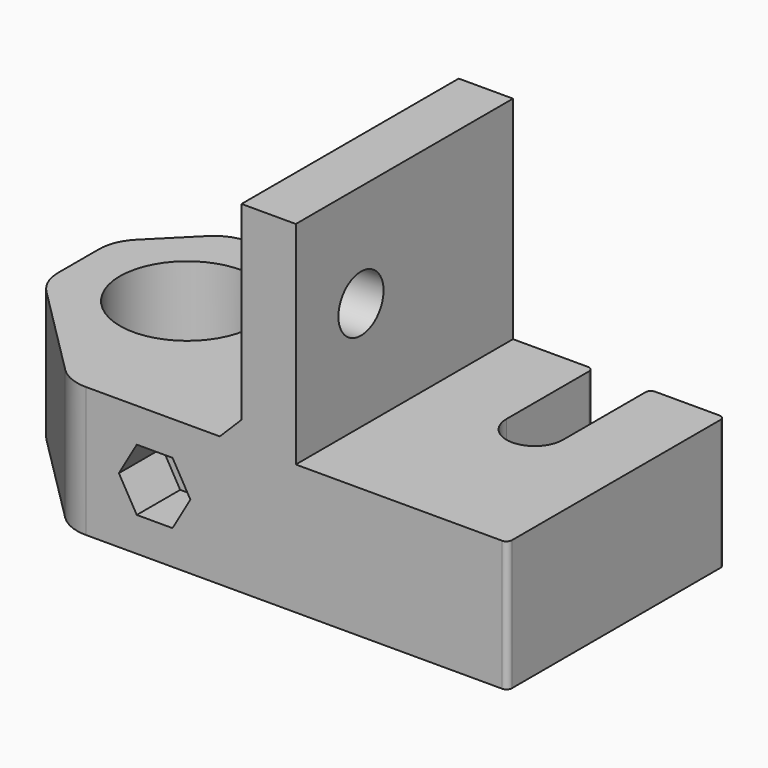
from build123d import *

# Parameters (mm, degrees)
PAD_DEPTH       = 31.5
SKETCH001_W     = 20
SKETCH001_H     = 30
SKETCH001_W_2   = 27
POCKET_DEPTH    = 19.5
SKETCH002_R     = 2.6
POCKET001_DEPTH = 24.501
SKETCH003_R     = 1.7
POCKET002_DEPTH = 25.001
SKETCH004_R     = 3
POCKET003_DEPTH = 3
POCKET004_DEPTH = 5
CHAMFER_SIZE    = 2
FILLET_R        = 0.5


with BuildPart() as part:
    # Sketch → Pad (new body)
    with BuildSketch(Plane.XY):
        with BuildLine():
            ThreePointArc((-0.171573, -13.828427), (1.126121, -14.695518), (2.656854, -15))
            Line((41.00007, -14.999422), (2.656854, -15))
            ThreePointArc((41.00007, -14.999422), (41.353579, -14.85295), (41.5, -14.499421))
            Line((41.5, 9.5), (41.5, -14.499421))
            ThreePointArc((41.5, 9.5), (41.353578, 9.853528), (41.000071, 10))
            Line((34.6, 10), (41.000071, 10))
            Line((34.6, 10), (34.6, 0))
            ThreePointArc((29.4, 0), (32, -2.6), (34.6, 0))
            Line((29.4, 0), (29.4, 10))
            Line((15, 10), (29.4, 10))
            Line((15, 3.5), (15, 10))
            Line((5.990826, 3.5), (15, 3.5))
            ThreePointArc((5.990826, 3.5), (5.56542, 3.262735), (5.54375, 2.776119))
            ThreePointArc((4.372572, 4.395522), (-5.023841, -3.633322), (5.54375, 2.776119))
            ThreePointArc((4.372572, 4.395522), (4.534461, 4.28781), (4.725198, 4.25))
            Line((14.25, 4.25), (4.725198, 4.25))
            Line((14.25, 10), (14.25, 4.25))
            Line((-2.343146, 10), (14.25, 10))
            ThreePointArc((-2.343146, 10), (-3.873879, 9.695518), (-5.171573, 8.828427))
            Line((-5.171573, 8.828427), (-8.828427, 5.171573))
            ThreePointArc((-8.828427, 5.171573), (-9.695518, 3.873879), (-10, 2.343146))
            Line((-10, -2.343146), (-10, 2.343146))
            ThreePointArc((-10, -2.343146), (-9.695518, -3.873879), (-8.828427, -5.171573))
            Line((-8.828427, -5.171573), (-0.171573, -13.828427))
        make_face()
    extrude(amount=PAD_DEPTH)

    # Sketch001 (on Face26 of Pad) → Pocket (cut)
    with BuildSketch(Plane.XY.offset(31.5)):
        with Locations((32, 0)):
            Rectangle(SKETCH001_W, SKETCH001_H)
        with Locations((3.5, 0)):
            Rectangle(SKETCH001_W_2, SKETCH001_H)
    extrude(amount=-POCKET_DEPTH, mode=Mode.SUBTRACT)

    # Sketch002 (on Face29 of Pocket) → Pocket001 (cut, through all)
    with BuildSketch(Plane(origin=(17, 0, 0), x_dir=(0, -1, 0), z_dir=(-1, 0, 0))):
        with Locations((7.5, 22)):
            Circle(SKETCH002_R)
    extrude(amount=-POCKET001_DEPTH, mode=Mode.SUBTRACT)

    # Sketch003 (on Face13 of Pocket001) → Pocket002 (cut, through all)
    with BuildSketch(Plane(origin=(0, 10, 0), x_dir=(-1, 0, 0), z_dir=(0, 1, 0))):
        with Locations((-9, 6)):
            Circle(SKETCH003_R)
    extrude(amount=-POCKET002_DEPTH, mode=Mode.SUBTRACT)

    # Sketch004 (on Face13 of Pocket002) → Pocket003 (cut)
    with BuildSketch(Plane(origin=(0, 10, 0), x_dir=(-1, 0, 0), z_dir=(0, 1, 0))):
        with Locations((-9, 6)):
            Circle(SKETCH004_R)
    extrude(amount=-POCKET003_DEPTH, mode=Mode.SUBTRACT)

    # Sketch005 (on Face21 of Pocket003) → Pocket004 (cut)
    with BuildSketch(Plane(origin=(0.000226, -15.00004, 0), x_dir=(1, 1.5e-05, 0), z_dir=(1.5e-05, -1, 0))):
        Polygon((10.645448, 3.15), (12.290897, 6), (10.645448, 8.85), (7.354552, 8.85), (5.709103, 6), (7.354552, 3.15), align=None)
    extrude(amount=-POCKET004_DEPTH, mode=Mode.SUBTRACT)

    # Chamfer
    chamfer_edges = [part.edges().sort_by_distance(p)[0] for p in [
        (17, -2.499892, 12),
    ]]
    chamfer(chamfer_edges, length=CHAMFER_SIZE)

    # Fillet
    fillet_edges = [part.edges().sort_by_distance(p)[0] for p in [
        (34.6, 10, 6),
        (29.4, 10, 6),
    ]]
    fillet(fillet_edges, radius=FILLET_R)


solid = part.part
